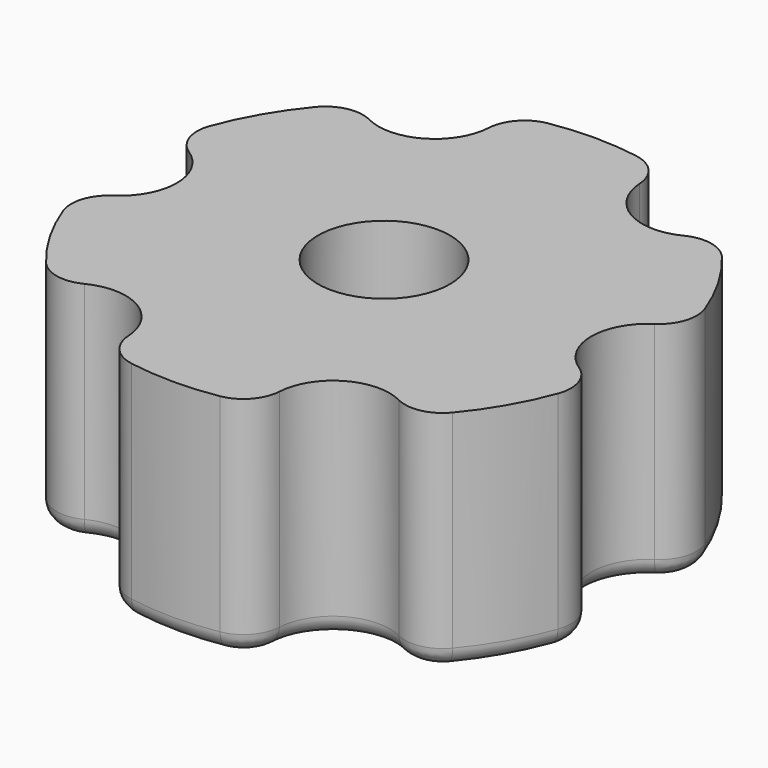
from build123d import *

# Parameters (mm, degrees)
PRISM_DEPTH                 = 4.8
CYLINDER007_R               = 1.75
CYLINDER007_DEPTH           = 20
CYLINDER002_R               = 1.5
CYLINDER002_DEPTH           = 100
CYLINDER002_PLACEMENT_ANGLE = 60
CYLINDER003_R               = 1.5
CYLINDER003_DEPTH           = 100
CYLINDER003_PLACEMENT_ANGLE = 120
CYLINDER004_R               = 1.5
CYLINDER004_DEPTH           = 100
CYLINDER005_R               = 1.5
CYLINDER005_DEPTH           = 100
CYLINDER005_PLACEMENT_ANGLE = 240
CYLINDER006_R               = 1.5
CYLINDER006_DEPTH           = 100
CYLINDER006_PLACEMENT_ANGLE = 60
CYLINDER001_R               = 1.5
CYLINDER001_DEPTH           = 100
CYLINDER_R                  = 7
CYLINDER_DEPTH              = 6
FILLET_R                    = 1
FILLET001_R                 = 1
FILLET002_R                 = 1
FILLET003_R                 = 1
FILLET004_R                 = 1
FILLET005_R                 = 1
FILLET006_R                 = 0.5


with BuildPart() as prism:
    # prism → prism (new body)
    with BuildSketch(Plane.XY.offset(-2.4)):
        Polygon((3.35, 0), (1.675, 2.901185), (-1.675, 2.901185), (-3.35, 0), (-1.675, -2.901185), (1.675, -2.901185), align=None)
    extrude(amount=PRISM_DEPTH)


with BuildPart() as cylinder007:
    # cylinder007 → cylinder007 (new body)
    with BuildSketch(Plane.XY.offset(-10)):
        Circle(CYLINDER007_R)
    extrude(amount=CYLINDER007_DEPTH)


with BuildPart() as cylinder002:
    # cylinder002 → cylinder002 (new body)
    with BuildSketch(Plane.XY):
        Circle(CYLINDER002_R)
    extrude(amount=CYLINDER002_DEPTH)


with BuildPart() as cylinder002_1:
    # cylinder002 placement: moved
    add(cylinder002.part.moved(Location((3.5, 6.062178, -50))).rotate(Axis((3.5, 6.062178, -50), (0, 0, 1)), CYLINDER002_PLACEMENT_ANGLE))


with BuildPart() as cylinder003:
    # cylinder003 → cylinder003 (new body)
    with BuildSketch(Plane.XY):
        Circle(CYLINDER003_R)
    extrude(amount=CYLINDER003_DEPTH)


with BuildPart() as cylinder003_1:
    # cylinder003 placement: moved
    add(cylinder003.part.moved(Location((-3.5, 6.062178, -50))).rotate(Axis((-3.5, 6.062178, -50), (0, 0, 1)), CYLINDER003_PLACEMENT_ANGLE))


with BuildPart() as cylinder004:
    # cylinder004 → cylinder004 (new body)
    with BuildSketch(Plane(origin=(-7, 0, -50), x_dir=(-1, 0, 0), z_dir=(0, 0, 1))):
        Circle(CYLINDER004_R)
    extrude(amount=CYLINDER004_DEPTH)


with BuildPart() as cylinder005:
    # cylinder005 → cylinder005 (new body)
    with BuildSketch(Plane.XY):
        Circle(CYLINDER005_R)
    extrude(amount=CYLINDER005_DEPTH)


with BuildPart() as cylinder005_1:
    # cylinder005 placement: moved
    add(cylinder005.part.moved(Location((-3.5, -6.062178, -50))).rotate(Axis((-3.5, -6.062178, -50), (0, 0, 1)), CYLINDER005_PLACEMENT_ANGLE))


with BuildPart() as cylinder006:
    # cylinder006 → cylinder006 (new body)
    with BuildSketch(Plane.XY):
        Circle(CYLINDER006_R)
    extrude(amount=CYLINDER006_DEPTH)


with BuildPart() as cylinder006_1:
    # cylinder006 placement: moved
    add(cylinder006.part.moved(Location((3.5, -6.062178, -50))).rotate(Axis((3.5, -6.062178, -50), (0, 0, -1)), CYLINDER006_PLACEMENT_ANGLE))


with BuildPart() as union:
    # cylinder001 → cylinder001 (new body)
    with BuildSketch(Plane(origin=(7, 0, -50), x_dir=(1, 0, 0), z_dir=(0, 0, 1))):
        Circle(CYLINDER001_R)
    extrude(amount=CYLINDER001_DEPTH)

    # Group: union cylinder002, cylinder003, cylinder004, cylinder005, cylinder006
    add(cylinder002_1.part)
    add(cylinder003_1.part)
    add(cylinder004.part)
    add(cylinder005_1.part)
    add(cylinder006_1.part)

    # union: union prism, cylinder007
    add(prism.part)
    add(cylinder007.part)


with BuildPart() as fillet006:
    # cylinder → cylinder (new body)
    with BuildSketch(Plane.XY):
        Circle(CYLINDER_R)
    extrude(amount=CYLINDER_DEPTH)

    # difference: cut union
    add(union.part, mode=Mode.SUBTRACT)

    # Fillet
    fillet_edges = [fillet006.edges().sort_by_distance(p)[0] for p in [
        (2.128082, -6.668678, 3),
    ]]
    fillet(fillet_edges, radius=FILLET_R)

    # Fillet001
    fillet001_edges = [fillet006.edges().sort_by_distance(p)[0] for p in [
        (-2.128082, -6.668678, 3),
    ]]
    fillet(fillet001_edges, radius=FILLET001_R)

    # Fillet002
    fillet002_edges = [fillet006.edges().sort_by_distance(p)[0] for p in [
        (-4.711203, -5.177312, 3),
    ]]
    fillet(fillet002_edges, radius=FILLET002_R)

    # Fillet003
    fillet003_edges = [fillet006.edges().sort_by_distance(p)[0] for p in [
        (-6.839286, -1.491365, 3),
    ]]
    fillet(fillet003_edges, radius=FILLET003_R)

    # Fillet004
    fillet004_edges = [fillet006.edges().sort_by_distance(p)[0] for p in [
        (-6.839286, 1.491365, 3),
    ]]
    fillet(fillet004_edges, radius=FILLET004_R)

    # Fillet005
    fillet005_edges = [fillet006.edges().sort_by_distance(p)[0] for p in [
        (-4.711203, 5.177312, 3),
        (-2.128082, 6.668678, 3),
        (2.128082, 6.668678, 3),
        (4.711203, 5.177312, 3),
        (6.839286, 1.491365, 3),
        (6.839286, -1.491365, 3),
        (4.711203, -5.177312, 3),
    ]]
    fillet(fillet005_edges, radius=FILLET005_R)

    # Fillet006
    fillet006_edges = [fillet006.edges().sort_by_distance(p)[0] for p in [
        (-6.062178, -3.5, 0),
    ]]
    fillet(fillet006_edges, radius=FILLET006_R)


solid = fillet006.part
